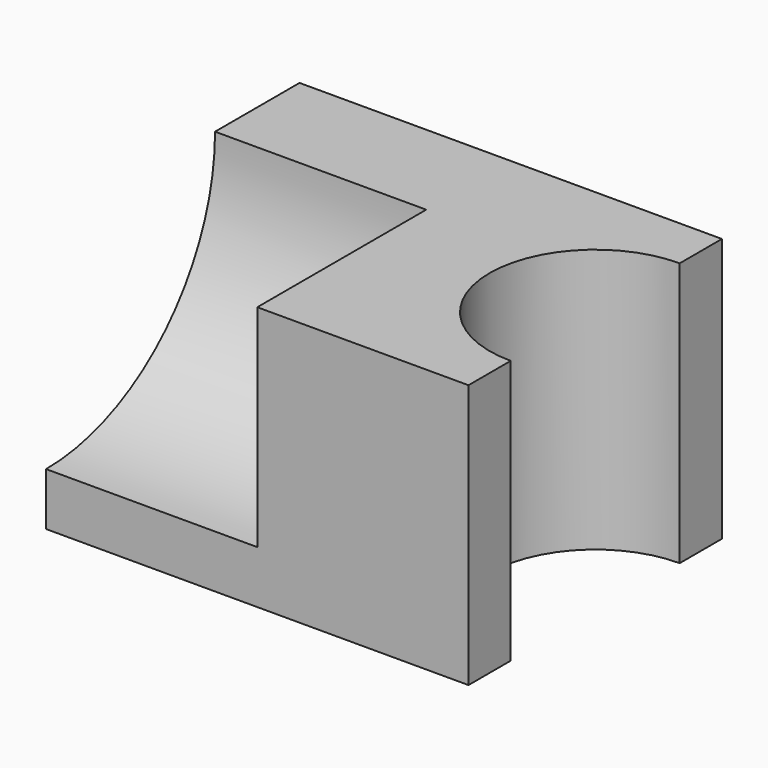
from build123d import *

# Parameters (mm, degrees)
F0_W     = 101.6
F0_H     = 63.5
F1_DEPTH = 76.2
F3_DEPTH = 63.5
F5_DEPTH = 50.8


with BuildPart() as f1:
    # F0 (on Front) → F1 (new body)
    with BuildSketch(Plane.XZ):
        with Locations((-0.522088, -11.191745)):
            Rectangle(F0_W, F0_H)
    extrude(amount=-F1_DEPTH)

    # F2 (on face) → F3 (cut)
    with BuildSketch(Plane.XY.offset(20.558255)):
        with BuildLine():
            Line((50.277912, 12.7), (50.277912, 63.5))
            ThreePointArc((50.277912, 63.5), (24.877912, 38.1), (50.277912, 12.7))
        make_face()
        with BuildLine():
            ThreePointArc((50.277912, 12.7), (68.238424, 20.139488), (75.677912, 38.1))
            ThreePointArc((75.677912, 38.1), (68.238424, 56.060512), (50.277912, 63.5))
            Line((50.277912, 63.5), (50.277912, 12.7))
        make_face()
    extrude(amount=-F3_DEPTH, mode=Mode.SUBTRACT)

    # F4 (on face) → F5 (cut)
    with BuildSketch(Plane(origin=(-51.322088, 0, 0), x_dir=(0, -1, 0), z_dir=(-1, 0, 0))):
        with BuildLine():
            Line((0, 20.558255), (-50.8, 20.558255))
            ThreePointArc((-50.8, 20.558255), (-35.921024, -15.36277), (0, -30.241745))
            Line((0, -30.241745), (0, 20.558255))
        make_face()
        with BuildLine():
            ThreePointArc((0, -30.241745), (35.921024, -15.36277), (50.8, 20.558255))
            ThreePointArc((50.8, 20.558255), (0, 71.358255), (-50.8, 20.558255))
            Line((-50.8, 20.558255), (0, 20.558255))
            Line((0, 20.558255), (0, -30.241745))
        make_face()
    extrude(amount=-F5_DEPTH, mode=Mode.SUBTRACT)


solid = f1.part
